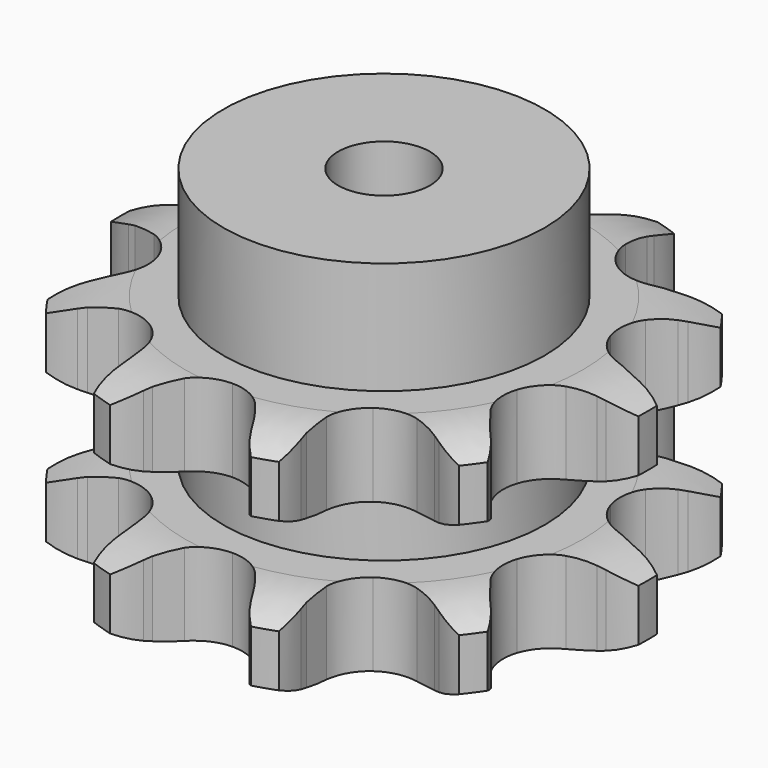
from build123d import *

# Parameters (mm, degrees)
PAD_DEPTH         = 30.3
SKETCH001_R       = 21
PAD001_DEPTH      = 45
SKETCH002_R       = 6
POCKET_DEPTH      = 0.001
POCKET_DEPTH_BACK = -45.001


with BuildPart() as part:
    # Sprocket → Pad (new body)
    with BuildSketch(Plane.XY):
        with BuildLine():
            ThreePointArc((-11.272984, 34.694676), (-8.850832, 32.92101), (-7.04431, 30.523264))
            Line((-7.04431, 30.523264), (-6.548899, 29.614617))
            ThreePointArc((-6.548899, 29.614617), (-5.65324, 28.164421), (-4.6062, 26.819439))
            ThreePointArc((-4.6062, 26.819439), (-2.530987, 25.269804), (0, 24.720272))
            ThreePointArc((0, 24.720272), (2.530987, 25.269804), (4.6062, 26.819439))
            ThreePointArc((4.6062, 26.819439), (5.65324, 28.164421), (6.548899, 29.614617))
            Line((6.548899, 29.614617), (7.04431, 30.523264))
            ThreePointArc((7.04431, 30.523264), (8.850832, 32.92101), (11.272984, 34.694676))
            ThreePointArc((11.272984, 34.694676), (12.190011, 31.836045), (12.242158, 28.834381))
            Line((12.242158, 28.834381), (12.108864, 27.808075))
            ThreePointArc((12.108864, 27.808075), (11.981064, 26.108387), (12.037576, 24.404838))
            ThreePointArc((12.037576, 24.404838), (12.805606, 21.931377), (14.530212, 19.999121))
            ThreePointArc((14.530212, 19.999121), (16.900829, 18.956024), (19.490565, 18.989925))
            Line((19.490565, 18.989925), (22.705206, 20.109382))
            ThreePointArc((22.705206, 20.109382), (23.169003, 20.339016), (23.640091, 20.553298))
            ThreePointArc((23.640091, 20.553298), (26.510958, 21.431268), (29.513055, 21.442489))
            ThreePointArc((29.513055, 21.442489), (28.574684, 18.590793), (26.852538, 16.131744))
            Line((26.852538, 16.131744), (26.141453, 15.379793))
            ThreePointArc((26.141453, 15.379793), (25.039009, 14.079836), (24.083408, 12.668419))
            ThreePointArc((24.083408, 12.668419), (23.250893, 10.21591), (23.510376, 7.638984))
            ThreePointArc((23.510376, 7.638984), (24.815129, 5.401687), (26.930196, 3.906906))
            Line((26.930196, 3.906906), (30.188896, 2.923046))
            ThreePointArc((30.188896, 2.923046), (30.699091, 2.836211), (31.206161, 2.73267))
            ThreePointArc((31.206161, 2.73267), (34.044799, 1.75551), (36.480142, 0))
            ThreePointArc((36.480142, 0), (34.044799, -1.75551), (31.206161, -2.73267))
            Line((31.206161, -2.73267), (30.188896, -2.923046))
            ThreePointArc((30.188896, -2.923046), (28.532904, -3.326734), (26.930196, -3.906906))
            ThreePointArc((26.930196, -3.906906), (24.815129, -5.401687), (23.510376, -7.638984))
            ThreePointArc((23.510376, -7.638984), (23.250893, -10.21591), (24.083408, -12.668419))
            Line((24.083408, -12.668419), (26.141453, -15.379793))
            ThreePointArc((26.141453, -15.379793), (26.50317, -15.74993), (26.852538, -16.131744))
            ThreePointArc((26.852538, -16.131744), (28.574684, -18.590793), (29.513055, -21.442489))
            ThreePointArc((29.513055, -21.442489), (26.510958, -21.431268), (23.640091, -20.553298))
            Line((23.640091, -20.553298), (22.705206, -20.109382))
            ThreePointArc((22.705206, -20.109382), (21.128199, -19.462604), (19.490565, -18.989925))
            ThreePointArc((19.490565, -18.989925), (16.900829, -18.956024), (14.530212, -19.999121))
            ThreePointArc((14.530212, -19.999121), (12.805606, -21.931377), (12.037576, -24.404838))
            Line((12.037576, -24.404838), (12.108864, -27.808075))
            ThreePointArc((12.108864, -27.808075), (12.183938, -28.320133), (12.242158, -28.834381))
            ThreePointArc((12.242158, -28.834381), (12.190011, -31.836045), (11.272984, -34.694676))
            ThreePointArc((11.272984, -34.694676), (8.850832, -32.92101), (7.04431, -30.523264))
            Line((7.04431, -30.523264), (6.548899, -29.614617))
            ThreePointArc((6.548899, -29.614617), (5.65324, -28.164421), (4.6062, -26.819439))
            ThreePointArc((4.6062, -26.819439), (2.530987, -25.269804), (0, -24.720272))
            ThreePointArc((0, -24.720272), (-2.530987, -25.269804), (-4.6062, -26.819439))
            Line((-4.6062, -26.819439), (-6.548899, -29.614617))
            ThreePointArc((-6.548899, -29.614617), (-6.789144, -30.073008), (-7.04431, -30.523264))
            ThreePointArc((-7.04431, -30.523264), (-8.850832, -32.92101), (-11.272984, -34.694676))
            ThreePointArc((-11.272984, -34.694676), (-12.190011, -31.836045), (-12.242158, -28.834381))
            Line((-12.242158, -28.834381), (-12.108864, -27.808075))
            ThreePointArc((-12.108864, -27.808075), (-11.981064, -26.108387), (-12.037576, -24.404838))
            ThreePointArc((-12.037576, -24.404838), (-12.805606, -21.931377), (-14.530212, -19.999121))
            ThreePointArc((-14.530212, -19.999121), (-16.900829, -18.956024), (-19.490565, -18.989925))
            Line((-19.490565, -18.989925), (-22.705206, -20.109382))
            ThreePointArc((-22.705206, -20.109382), (-23.169003, -20.339016), (-23.640091, -20.553298))
            ThreePointArc((-23.640091, -20.553298), (-26.510958, -21.431268), (-29.513055, -21.442489))
            ThreePointArc((-29.513055, -21.442489), (-28.574684, -18.590793), (-26.852538, -16.131744))
            Line((-26.852538, -16.131744), (-26.141453, -15.379793))
            ThreePointArc((-26.141453, -15.379793), (-25.039009, -14.079836), (-24.083408, -12.668419))
            ThreePointArc((-24.083408, -12.668419), (-23.250893, -10.21591), (-23.510376, -7.638984))
            ThreePointArc((-23.510376, -7.638984), (-24.815129, -5.401687), (-26.930196, -3.906906))
            Line((-26.930196, -3.906906), (-30.188896, -2.923046))
            ThreePointArc((-30.188896, -2.923046), (-30.699091, -2.836211), (-31.206161, -2.73267))
            ThreePointArc((-31.206161, -2.73267), (-34.044799, -1.75551), (-36.480142, 0))
            ThreePointArc((-36.480142, 0), (-34.044799, 1.75551), (-31.206161, 2.73267))
            Line((-31.206161, 2.73267), (-30.188896, 2.923046))
            ThreePointArc((-30.188896, 2.923046), (-28.532904, 3.326734), (-26.930196, 3.906906))
            ThreePointArc((-26.930196, 3.906906), (-24.815129, 5.401687), (-23.510376, 7.638984))
            ThreePointArc((-23.510376, 7.638984), (-23.250893, 10.21591), (-24.083408, 12.668419))
            Line((-24.083408, 12.668419), (-26.141453, 15.379793))
            ThreePointArc((-26.141453, 15.379793), (-26.50317, 15.74993), (-26.852538, 16.131744))
            ThreePointArc((-26.852538, 16.131744), (-28.574684, 18.590793), (-29.513055, 21.442489))
            ThreePointArc((-29.513055, 21.442489), (-26.510958, 21.431268), (-23.640091, 20.553298))
            Line((-23.640091, 20.553298), (-22.705206, 20.109382))
            ThreePointArc((-22.705206, 20.109382), (-21.128199, 19.462604), (-19.490565, 18.989925))
            ThreePointArc((-19.490565, 18.989925), (-16.900829, 18.956024), (-14.530212, 19.999121))
            ThreePointArc((-14.530212, 19.999121), (-12.805606, 21.931377), (-12.037576, 24.404838))
            Line((-12.037576, 24.404838), (-12.108864, 27.808075))
            ThreePointArc((-12.108864, 27.808075), (-12.183938, 28.320133), (-12.242158, 28.834381))
            ThreePointArc((-12.242158, 28.834381), (-12.190011, 31.836045), (-11.272984, 34.694676))
        make_face()
    extrude(amount=PAD_DEPTH)

    # Sketch → Groove (revolve, cut)
    with BuildSketch(Plane.XZ):
        with BuildLine():
            ThreePointArc((26.014719, 0), (30.373618, 0.506758), (34.5, 2))
            Line((34.5, 2), (34.5, 8.8))
            ThreePointArc((34.5, 8.8), (30.373618, 10.293242), (26.014719, 10.8))
            Line((21, 10.8), (26.014719, 10.8))
            Line((21, 19.5), (21, 10.8))
            Line((26.014719, 19.5), (21, 19.5))
            ThreePointArc((26.014719, 19.5), (30.373618, 20.006758), (34.5, 21.5))
            Line((34.5, 21.5), (34.5, 28.3))
            ThreePointArc((34.5, 28.3), (30.373618, 29.793242), (26.014719, 30.3))
            Line((26.014719, 30.3), (44.5, 30.3))
            Line((44.5, 30.3), (44.5, 0))
            Line((26.014719, 0), (44.5, 0))
        make_face()
    revolve(axis=Axis((0, 0, 0), (0, 0, 1)), mode=Mode.SUBTRACT)

    # Sketch001 → Pad001 (join)
    with BuildSketch(Plane.XY):
        Circle(SKETCH001_R)
    extrude(amount=PAD001_DEPTH)

    # Sketch002 → Pocket (cut, two sides)
    with BuildSketch(Plane.XY) as pocket_sk:
        Circle(SKETCH002_R)
    extrude(amount=-POCKET_DEPTH, mode=Mode.SUBTRACT)
    extrude(pocket_sk.sketch, amount=-POCKET_DEPTH_BACK, mode=Mode.SUBTRACT)


solid = part.part
